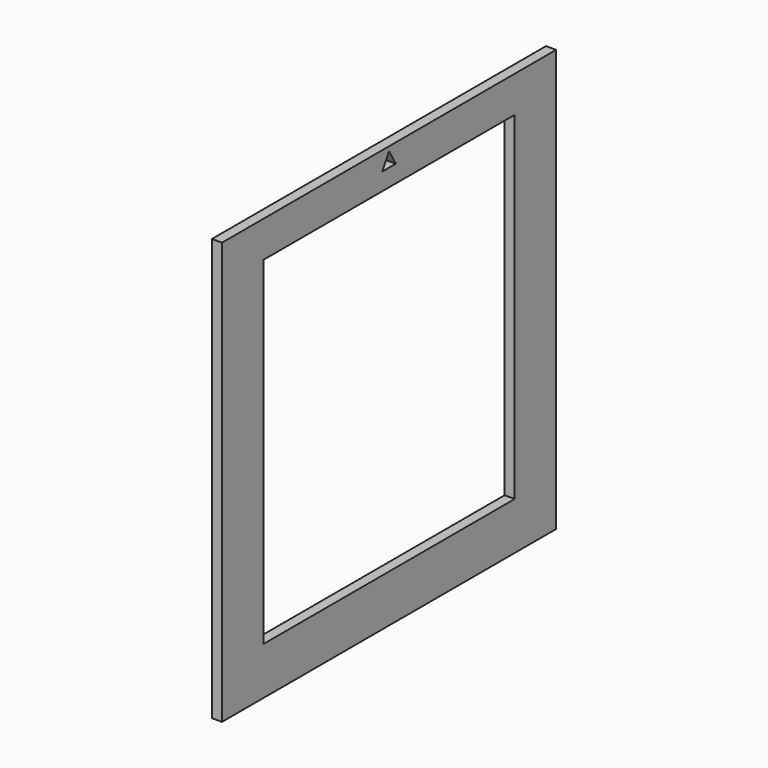
from build123d import *

# Parameters (mm, degrees)
SKETCH_W     = 495
SKETCH_H     = 500
PAD_DEPTH    = 12
SKETCH001_W  = 372.304686
SKETCH001_H  = 400.790555
POCKET_DEPTH = 12.001


with BuildPart() as part:
    # Sketch → Pad (new body)
    with BuildSketch(Plane.YZ):
        with Locations((0, 250)):
            Rectangle(SKETCH_W, SKETCH_H)
    extrude(amount=PAD_DEPTH)

    # Sketch001 (on Face6 of Pad) → Pocket (cut, through all)
    with BuildSketch(Plane.YZ.offset(12)):
        Polygon((0, 495), (-10, 477.679492), (10, 477.679492), align=None)
        with Locations((0, 256.721156)):
            Rectangle(SKETCH001_W, SKETCH001_H)
    extrude(amount=-POCKET_DEPTH, mode=Mode.SUBTRACT)


solid = part.part
